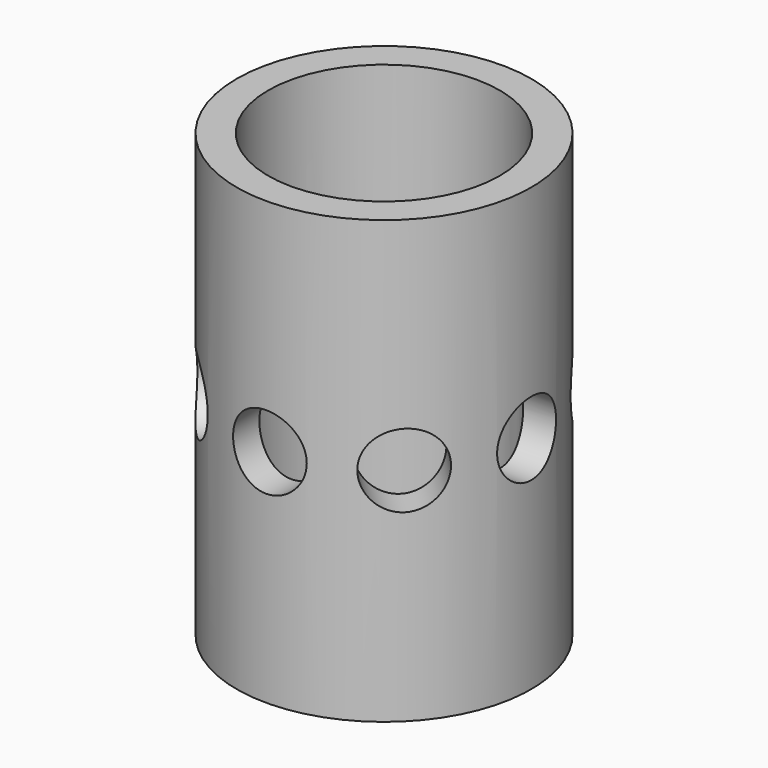
from build123d import *

# Parameters (mm, degrees)
F0_W     = 38.1
F0_H     = 114.3
F3_R     = 9.525
F4_DEPTH = 10.16
F5_COUNT = 8
F8_R     = 29.9551
F9_DEPTH = 114.301


with BuildPart() as f1:
    # F0 (on Front) → F1 (revolve)
    with BuildSketch(Plane.XZ):
        with Locations((-19.05, 0)):
            Rectangle(F0_W, F0_H)
    revolve(axis=Axis((0, 0, 0), (0, 0, -1)))


with BuildPart() as f4:
    # F3 (on offset) → F4 (new body)
    with BuildSketch(Plane.XZ.offset(38.1)):
        Circle(F3_R)
    extrude(amount=-F4_DEPTH)


with BuildPart() as f5_1:
    # F5: instance of F4
    add(f4.part.rotate(Axis((0, 0, 57.15), (0, 0, -1)), 1 * 360 / F5_COUNT))


with BuildPart() as f5_2:
    # F5: instance of F4
    add(f4.part.rotate(Axis((0, 0, 57.15), (0, 0, -1)), 2 * 360 / F5_COUNT))


with BuildPart() as f5_3:
    # F5: instance of F4
    add(f4.part.rotate(Axis((0, 0, 57.15), (0, 0, -1)), 3 * 360 / F5_COUNT))


with BuildPart() as f5_4:
    # F5: instance of F4
    add(f4.part.rotate(Axis((0, 0, 57.15), (0, 0, -1)), 4 * 360 / F5_COUNT))


with BuildPart() as f5_5:
    # F5: instance of F4
    add(f4.part.rotate(Axis((0, 0, 57.15), (0, 0, -1)), 5 * 360 / F5_COUNT))


with BuildPart() as f5_6:
    # F5: instance of F4
    add(f4.part.rotate(Axis((0, 0, 57.15), (0, 0, -1)), 6 * 360 / F5_COUNT))


with BuildPart() as f5_7:
    # F5: instance of F4
    add(f4.part.rotate(Axis((0, 0, 57.15), (0, 0, -1)), 7 * 360 / F5_COUNT))


with BuildPart() as f1_1:
    add(f1.part)

    # F6: cut F4, F5_1, F5_2, F5_3, F5_4, F5_5, F5_6, F5_7
    add(f4.part, mode=Mode.SUBTRACT)
    add(f5_1.part, mode=Mode.SUBTRACT)
    add(f5_2.part, mode=Mode.SUBTRACT)
    add(f5_3.part, mode=Mode.SUBTRACT)
    add(f5_4.part, mode=Mode.SUBTRACT)
    add(f5_5.part, mode=Mode.SUBTRACT)
    add(f5_6.part, mode=Mode.SUBTRACT)
    add(f5_7.part, mode=Mode.SUBTRACT)

    # F8 (on offset) → F9 (cut, through all)
    with BuildSketch(Plane.XY.offset(57.15)):
        Circle(F8_R)
    extrude(amount=-F9_DEPTH, mode=Mode.SUBTRACT)


solid = f1_1.part
